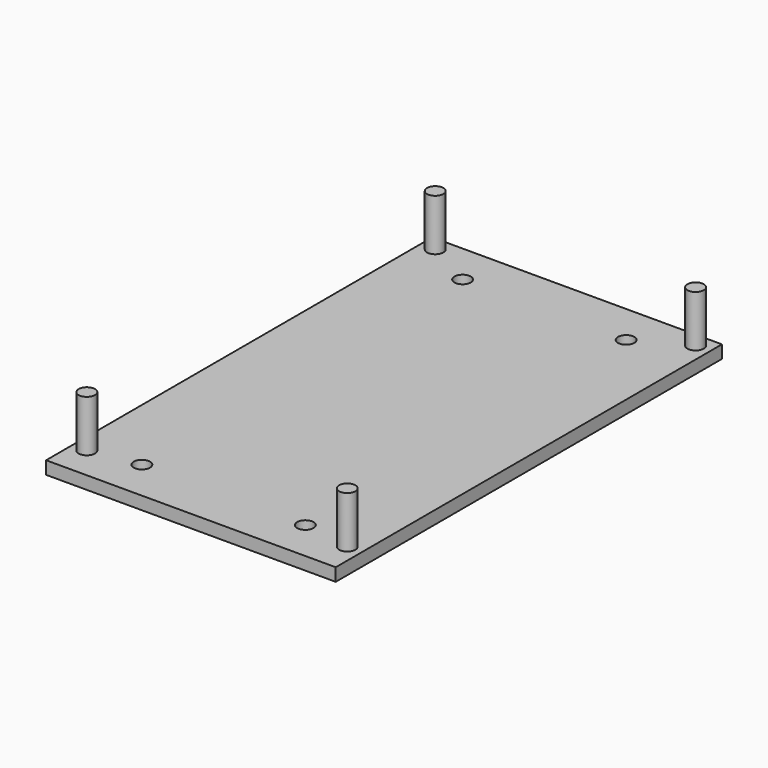
from build123d import *

# Parameters (mm, degrees)
F0_W     = 45
F0_H     = 75
F0_R     = 1.27
F1_DEPTH = 2
F2_DEPTH = 10


with BuildPart() as f1:
    # F0 (on Top) → F1 (new body)
    with BuildSketch(Plane.XY):
        Rectangle(F0_W, F0_H)
        with Locations((-20.230002, -32.42)):
            Circle(F0_R, mode=Mode.SUBTRACT)
        with Locations((-12.7, -31.15)):
            Circle(F0_R, mode=Mode.SUBTRACT)
        with Locations((12.7, -31.15)):
            Circle(F0_R, mode=Mode.SUBTRACT)
        with Locations((20.230002, -32.42)):
            Circle(F0_R, mode=Mode.SUBTRACT)
        with Locations((-20.230002, 35.23)):
            Circle(F0_R, mode=Mode.SUBTRACT)
        with Locations((-12.7, 31.15)):
            Circle(F0_R, mode=Mode.SUBTRACT)
        with Locations((12.7, 31.15)):
            Circle(F0_R, mode=Mode.SUBTRACT)
        with Locations((20.23, 35.230002)):
            Circle(F0_R, mode=Mode.SUBTRACT)
        Rectangle(F0_W, F0_H)
        with Locations((-20.230002, -32.42)):
            Circle(F0_R, mode=Mode.SUBTRACT)
        with Locations((-12.7, -31.15)):
            Circle(F0_R, mode=Mode.SUBTRACT)
        with Locations((12.7, -31.15)):
            Circle(F0_R, mode=Mode.SUBTRACT)
        with Locations((20.230002, -32.42)):
            Circle(F0_R, mode=Mode.SUBTRACT)
        with Locations((-20.230002, 35.23)):
            Circle(F0_R, mode=Mode.SUBTRACT)
        with Locations((-12.7, 31.15)):
            Circle(F0_R, mode=Mode.SUBTRACT)
        with Locations((12.7, 31.15)):
            Circle(F0_R, mode=Mode.SUBTRACT)
        with Locations((20.23, 35.230002)):
            Circle(F0_R, mode=Mode.SUBTRACT)
        with Locations((-20.230002, -32.42)):
            Circle(F0_R)
        with Locations((20.230002, -32.42)):
            Circle(F0_R)
        with Locations((20.23, 35.230002)):
            Circle(F0_R)
        with Locations((-20.230002, 35.23)):
            Circle(F0_R)
    extrude(amount=F1_DEPTH)

    # F0 (on Top) → F2 (join)
    with BuildSketch(Plane.XY):
        with Locations((-20.230002, 35.23)):
            Circle(F0_R)
        with Locations((20.230002, -32.42)):
            Circle(F0_R)
        with Locations((-20.230002, -32.42)):
            Circle(F0_R)
        with Locations((20.23, 35.230002)):
            Circle(F0_R)
    extrude(amount=F2_DEPTH)


solid = f1.part
